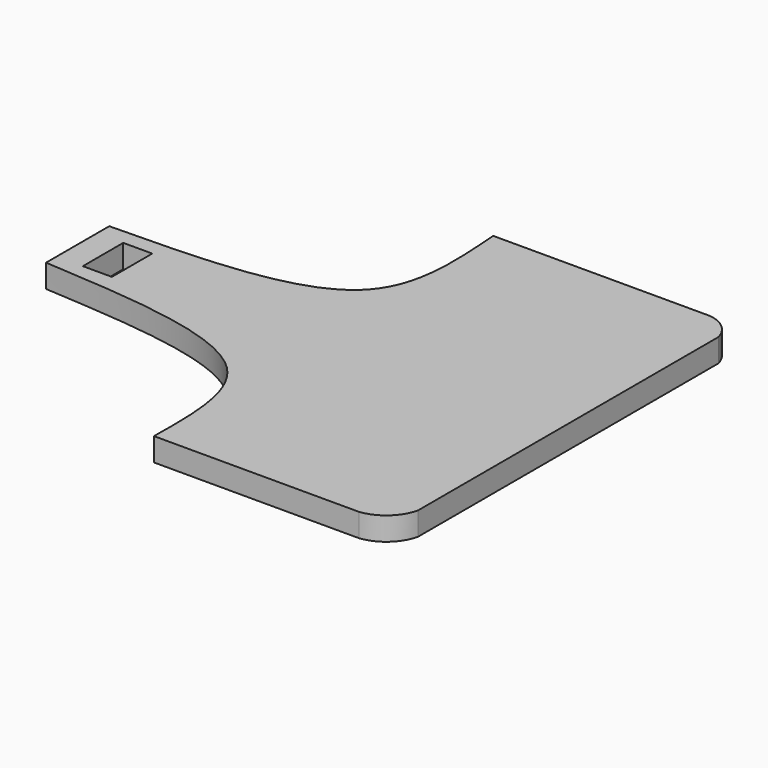
from build123d import *

# Parameters (mm, degrees)
F0_W     = 400
F0_H     = 352
F1_DEPTH = 19
F3_DEPTH = 19.001
F5_DEPTH = 19.0010001
F6_W     = 23.7784683704
F6_H     = 41.3538441062
F7_DEPTH = 19.0010001


with BuildPart() as f1:
    # F0 (on Top) → F1 (new body)
    with BuildSketch(Plane.XY):
        Rectangle(F0_W, F0_H)
    extrude(amount=F1_DEPTH)

    # F2 (on face) → F3 (cut, through all)
    with BuildSketch(Plane.XY.offset(19)):
        with BuildLine():
            add(Edge.make_bspline(
                [(-200, -31.5323062241), (-125.2770154333, -36.2490441097), (5.7780898117, -44.5216336427), (4.4484516613, -136.4751329034), (3.8769261446, -176)],
                knots=[0, 0, 0, 0, 0.5701646222, 1, 1, 1, 1], degree=3))
            Line((-200, -31.5323062241), (-200, -176))
            Line((-200, -176), (3.8769261446, -176))
        make_face()
        with BuildLine():
            Line((-200, 176), (-200, 33.0830775201))
            add(Edge.make_bspline(
                [(-200, 33.0830775201), (-124.0325945429, 34.1230566676), (10.5757099688, 35.9658184275), (3.2091678996, 133.5070419218), (0, 176)],
                knots=[0, 0, 0, 0, 0.5643589802, 1, 1, 1, 1], degree=3))
            Line((0, 176), (-200, 176))
        make_face()
        with BuildLine():
            ThreePointArc((200, -150.9415358305), (189.8823225958, -167.8969578857), (171.8769222498, -176))
            Line((171.8769222498, -176), (200, -176))
            Line((200, -176), (200, -150.9415358305))
        make_face()
    extrude(amount=-F3_DEPTH, mode=Mode.SUBTRACT)

    # F4 (on face) → F5 (cut, through all)
    with BuildSketch(Plane.XY.offset(19)):
        with BuildLine():
            ThreePointArc((177.4510932605, 176), (191.7387998266, 169.8211963235), (200, 156.6276848316))
            Line((200, 156.6276848316), (200, 176))
            Line((200, 176), (177.4510932605, 176))
        make_face()
    extrude(amount=-F5_DEPTH, mode=Mode.SUBTRACT)

    # F6 (on face) → F7 (cut, through all)
    with BuildSketch(Plane.XY.offset(19)):
        with Locations((-166.7076945305, 0)):
            Rectangle(F6_W, F6_H)
    extrude(amount=-F7_DEPTH, mode=Mode.SUBTRACT)


solid = f1.part
